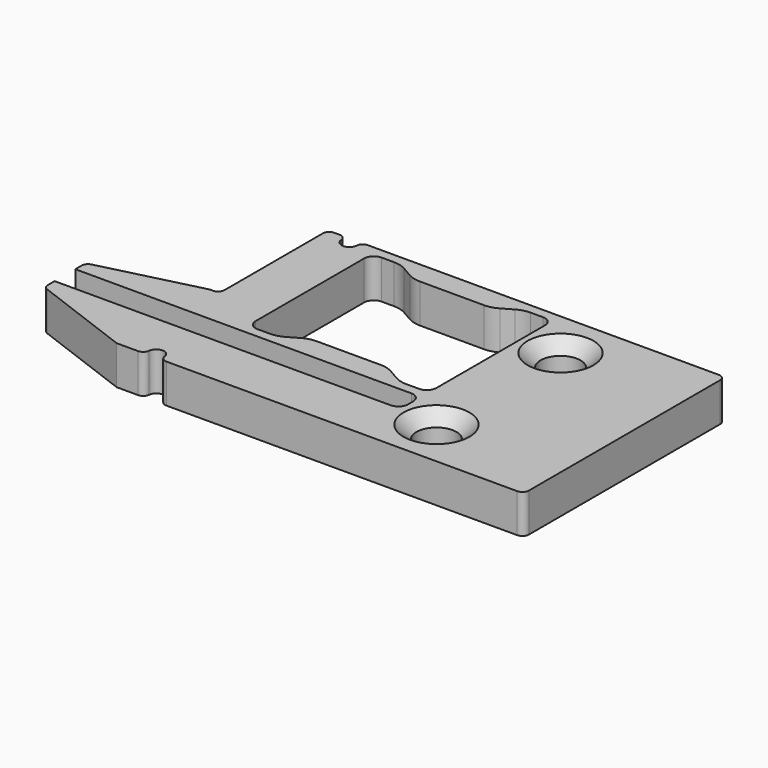
from build123d import *

# Parameters (mm, degrees)
SKETCH_R     = 1.55
SKETCH_W     = 14
SKETCH_H     = 12
PAD_DEPTH    = 3
FILLET_R     = 0.75
POCKET_DEPTH = 5
FILLET001_R  = 0.5
CHAMFER_SIZE = 1
PAD001_DEPTH = 3
FILLET002_R  = 2
SKETCH004_W  = 0.400118
SKETCH004_H  = 2.725121
PAD002_DEPTH = 0.2


with BuildPart() as part:
    # Sketch → Pad (new body)
    with BuildSketch(Plane.XY):
        Polygon((-9.75, -9.75), (9.75, -9.75), (9.75, 9.75), (-9.75, 9.75), (-21, 9.75), (-21, -0.75), (-21.75, -0.75), (-29.75, -2.75), (-29.75, -3.75), (-3, -3.75), (-3, -5.75), (-29.75, -5.75), (-29.75, -6.75), (-21.75, -9.75), align=None)
        with Locations((0, 6)):
            Circle(SKETCH_R, mode=Mode.SUBTRACT)
        with Locations((0, -6)):
            Circle(SKETCH_R, mode=Mode.SUBTRACT)
        with Locations((-10, 3)):
            Rectangle(SKETCH_W, SKETCH_H, mode=Mode.SUBTRACT)
    extrude(amount=PAD_DEPTH)

    # Fillet
    fillet_edges = [part.edges().sort_by_distance(p)[0] for p in [
        (-3, -3, 1.5),
        (-3, 9, 1.5),
        (-17, 9, 1.5),
        (-17, -3, 1.5),
        (-3, -3.75, 1.5),
        (-3, -5.75, 1.5),
    ]]
    fillet(fillet_edges, radius=FILLET_R)

    # Sketch002 (on Face26 of Fillet) → Pocket (cut)
    with BuildSketch(Plane.XY.offset(3)):
        with BuildLine():
            ThreePointArc((-18.4, -9.353833), (-19, -8.753833), (-19.6, -9.353833))
            Line((-19.6, -9.353833), (-19.6, -11.103725))
            ThreePointArc((-19.6, -11.103725), (-19, -11.703725), (-18.4, -11.103725))
            Line((-18.4, -9.353833), (-18.4, -11.103725))
        make_face()
        with BuildLine():
            ThreePointArc((-18.4, 12.382466), (-19, 12.982466), (-19.6, 12.382466))
            Line((-19.6, 12.382466), (-19.6, 9.326973))
            ThreePointArc((-19.6, 9.326973), (-19, 8.726973), (-18.4, 9.326973))
            Line((-18.4, 12.382466), (-18.4, 9.326973))
        make_face()
    extrude(amount=-POCKET_DEPTH, mode=Mode.SUBTRACT)

    # Fillet001
    fillet001_edges = [part.edges().sort_by_distance(p)[0] for p in [
        (-21, 9.75, 1.5),
        (-21, -0.75, 1.5),
        (9.75, -9.75, 1.5),
        (9.75, 9.75, 1.5),
        (-19.6, 9.75, 1.5),
        (-18.4, 9.75, 1.5),
        (-19.6, -9.75, 1.5),
        (-18.4, -9.75, 1.5),
        (-29.75, -6.75, 1.5),
        (-29.75, -2.75, 1.5),
    ]]
    fillet(fillet001_edges, radius=FILLET001_R)

    # Chamfer
    chamfer_edges = [part.edges().sort_by_distance(p)[0] for p in [
        (-1.55, 6, 3),
        (-1.55, -6, 3),
    ]]
    chamfer(chamfer_edges, length=CHAMFER_SIZE)

    # Sketch003 (on Face4 of Chamfer) → Pad001 (join)
    with BuildSketch(Plane.XY.offset(3)):
        Polygon((-14.75, 9), (-13.017949, 8), (-6.982051, 8), (-5.25, 9), align=None)
        Polygon((-14.75, -3), (-13.017949, -2), (-6.982051, -2), (-5.25, -3), align=None)
    extrude(amount=-PAD001_DEPTH)

    # Fillet002
    fillet002_edges = [part.edges().sort_by_distance(p)[0] for p in [
        (-5.25, -3, 1.5),
        (-14.75, -3, 1.5),
        (-13.017949, -2, 1.5),
        (-6.982051, -2, 1.5),
        (-5.25, 9, 1.5),
        (-6.982051, 8, 1.5),
        (-13.017949, 8, 1.5),
        (-14.75, 9, 1.5),
    ]]
    fillet(fillet002_edges, radius=FILLET002_R)

    # Sketch004 (on Face1 of Fillet002) → Pad002 (join)
    with BuildSketch(Plane(origin=(0, 0, 0), x_dir=(1, 0, 0), z_dir=(0, 0, -1))):
        with Locations((-25.583762, 4.610938)):
            Rectangle(SKETCH004_W, SKETCH004_H)
    extrude(amount=-PAD002_DEPTH)


solid = part.part
